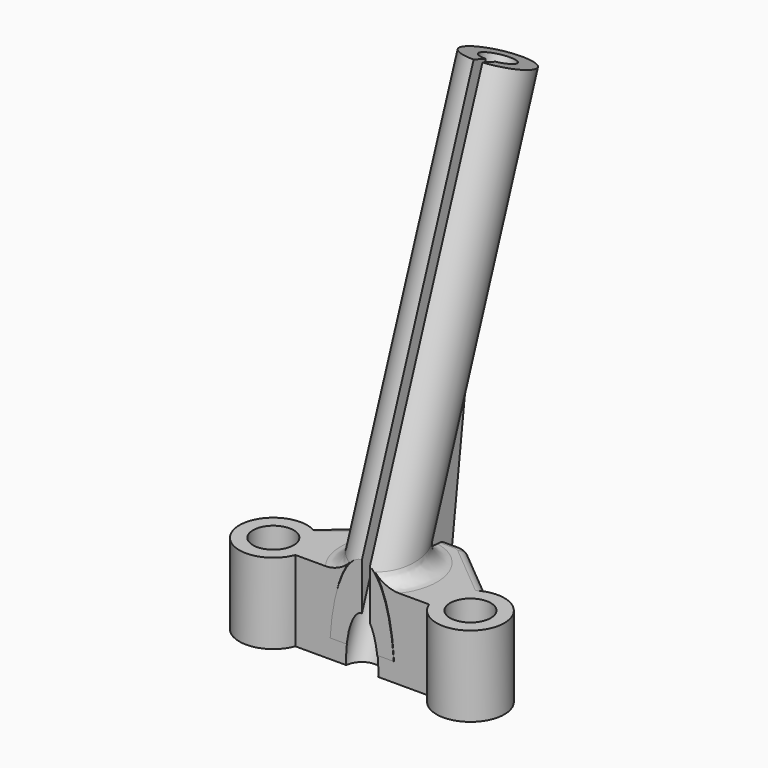
from build123d import *

# Parameters (mm, degrees)
BOX001_W                    = 10
BOX001_H                    = 10
BOX001_DEPTH                = 18
PAD001_DEPTH                = 1
BOX_W                       = 1
BOX_H                       = 4
BOX_DEPTH                   = 62
BOX_PLACEMENT_ANGLE         = 340
CYLINDER_R                  = 2
CYLINDER_DEPTH              = 67
CYLINDER_PLACEMENT_ANGLE    = 340
CYLINDER001_R               = 4
CYLINDER001_DEPTH           = 60
CYLINDER001_PLACEMENT_ANGLE = 20
SKETCH_R                    = 2.527902
PAD_DEPTH                   = 10
FILLET_R                    = 2
FILLET001_R                 = 2
FILLET002_R                 = 2
FILLET004_R                 = 1


with BuildPart() as box001:
    # Box001 → Box001 (new body)
    with BuildSketch(Plane(origin=(-4.48, -1.55, 0), x_dir=(0, -1, 0), z_dir=(0, 0, 1))):
        with Locations((5, 5)):
            Rectangle(BOX001_W, BOX001_H)
    extrude(amount=BOX001_DEPTH)


with BuildPart() as body001:
    # Sketch001 → Pad001 (new body, symmetric)
    with BuildSketch(Plane.YZ):
        Polygon((11.126045, 25.12734), (5.15667, 9.780665), (10.086619, 0), (14.214679, 32.616486), align=None)
    extrude(amount=PAD001_DEPTH, both=True)


with BuildPart() as box:
    # Box → Box (new body)
    with BuildSketch(Plane.XY):
        with Locations((0.5, 2)):
            Rectangle(BOX_W, BOX_H)
    extrude(amount=BOX_DEPTH)


with BuildPart() as box_1:
    # Box placement: moved
    add(box.part.moved(Location((0, -5.296136, 2.991813))).rotate(Axis((0, -5.296136, 2.991813), (1, 0, 0)), BOX_PLACEMENT_ANGLE))


with BuildPart() as cylinder:
    # Cylinder → Cylinder (new body)
    with BuildSketch(Plane.XY):
        Circle(CYLINDER_R)
    extrude(amount=CYLINDER_DEPTH)


with BuildPart() as cylinder_1:
    # Cylinder placement: moved
    add(cylinder.part.moved(Location((0, -2.318081, -1.61877))).rotate(Axis((0, -2.318081, -1.61877), (1, 0, 0)), CYLINDER_PLACEMENT_ANGLE))


with BuildPart() as cylinder001:
    # Cylinder001 → Cylinder001 (new body)
    with BuildSketch(Plane.XY):
        Circle(CYLINDER001_R)
    extrude(amount=CYLINDER001_DEPTH)


with BuildPart() as cylinder001_1:
    # Cylinder001 placement: moved
    add(cylinder001.part.moved(Location((0, -0.95, 2.14))).rotate(Axis((0, -0.95, 2.14), (-1, 0, 0)), CYLINDER001_PLACEMENT_ANGLE))


with BuildPart() as cut002:
    # Sketch → Pad (new body)
    with BuildSketch(Plane.XY):
        with BuildLine():
            ThreePointArc((-11.024148, 4.03498), (-16.038919, -1.856194), (-8.310522, -1.501592))
            Line((-8.310522, -1.501592), (0, -1.501592))
            Line((8.310522, -1.501592), (0, -1.501592))
            ThreePointArc((8.310522, -1.501592), (16.038919, -1.856194), (11.024148, 4.03498))
            Line((11.024148, 4.03498), (3.534046, 10.276075))
            Line((3.534046, 10.276075), (0, 10.276075))
            Line((-3.534046, 10.276075), (0, 10.276075))
            Line((-11.024148, 4.03498), (-3.534046, 10.276075))
        make_face()
        with Locations((-12.251753, 0)):
            Circle(SKETCH_R, mode=Mode.SUBTRACT)
        with Locations((12.251753, 0)):
            Circle(SKETCH_R, mode=Mode.SUBTRACT)
    extrude(amount=PAD_DEPTH)

    # Fusion: union Cylinder001
    add(cylinder001_1.part)

    # Cut: cut Cylinder
    add(cylinder_1.part, mode=Mode.SUBTRACT)

    # Cut001: cut Box
    add(box_1.part, mode=Mode.SUBTRACT)

    # Fillet
    fillet_edges = [cut002.edges().sort_by_distance(p)[0] for p in [
        (-1.866147, 5.675875, 10),
    ]]
    fillet(fillet_edges, radius=FILLET_R)

    # Fusion001: union Body001
    add(body001.part)

    # Fillet001
    fillet001_edges = [cut002.edges().sort_by_distance(p)[0] for p in [
        (-3.534046, 10.276075, 5),
    ]]
    fillet(fillet001_edges, radius=FILLET001_R)

    # Fillet002
    fillet002_edges = [cut002.edges().sort_by_distance(p)[0] for p in [
        (3.534046, 10.276075, 5),
    ]]
    fillet(fillet002_edges, radius=FILLET002_R)

    # Fillet004
    fillet004_edges = [cut002.edges().sort_by_distance(p)[0] for p in [
        (1.905002, 10.276075, 10),
        (-1.905002, 10.276075, 10),
    ]]
    fillet(fillet004_edges, radius=FILLET004_R)

    # Cut002: cut Box001
    add(box001.part, mode=Mode.SUBTRACT)


solid = cut002.part
